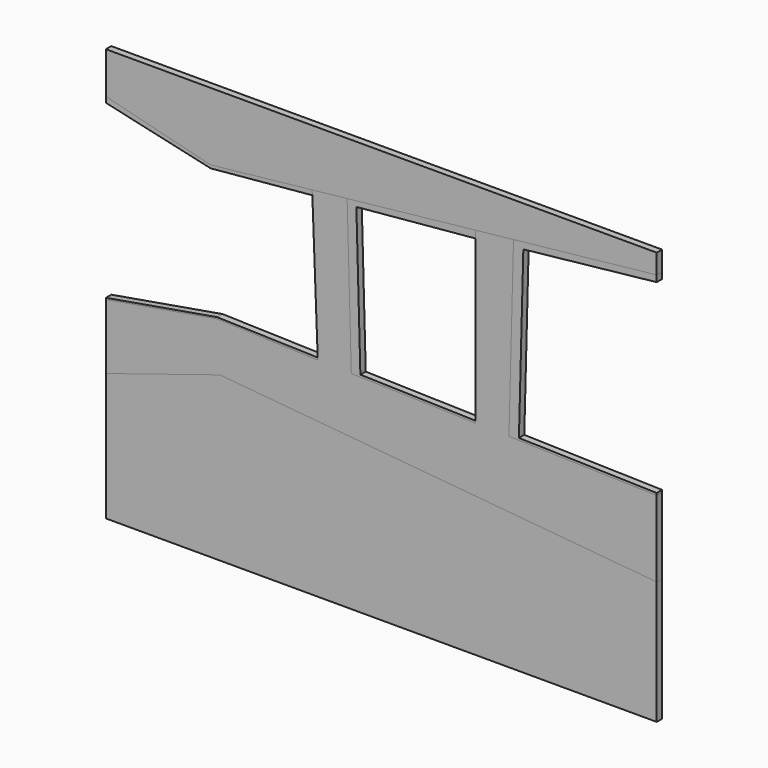
from build123d import *

# Parameters (mm, degrees)
F2_DEPTH = 2.54
F3_DEPTH = 2.54
F4_DEPTH = 2.54
F5_DEPTH = 2.54


with BuildPart() as f2:
    # F1 (on Front) → F2 (new body)
    with BuildSketch(Plane.XZ):
        Polygon((-60.72167, -17.372691), (-103.898698, -30.960672), (-103.898698, -79.305868), (104.809191, -79.305868), (104.809191, -32.622498), align=None)
    extrude(amount=F2_DEPTH)


with BuildPart() as f3:
    # F1 (on Front) → F3 (new body)
    with BuildSketch(Plane.XZ):
        Polygon((-61.673749, 0.958866), (-103.898698, -6.29724), (-103.898698, -30.960672), (-60.72167, -17.372691), align=None)
        Polygon((48.810381, -2.284143), (50.551797, 63.942278), (36.207689, 62.39319), (36.207689, 59.63257), (36.207689, -1.148774), (36.207689, -1.952756), (-10.918569, -0.713576), (-12.50122, 57.132883), (-25.744948, 55.70263), (-25.677872, 53.930861), (-23.653735, 0.464625), (-23.621777, -0.379547), (-61.673749, 0.958866), (-60.72167, -17.372691), (104.809191, -32.622498), (104.809191, -3.756626), align=None)
    extrude(amount=F3_DEPTH)


with BuildPart() as f4:
    # F1 (on Front) → F4 (new body)
    with BuildSketch(Plane.XZ):
        Polygon((104.809191, 67.367421), (104.809191, 69.801793), (50.551797, 63.942278), (54.265019, 61.908916), align=None)
        Polygon((54.265019, 61.908916), (50.551797, 63.942278), (48.810381, -2.284143), (52.596175, -1.557528), align=None)
        Polygon((104.809191, -3.756626), (104.809191, -2.930464), (52.596175, -1.557528), (48.810381, -2.284143), align=None)
        Polygon((-7.480396, 0), (-10.918569, -0.713576), (36.207689, -1.952756), (36.207689, -1.148774), align=None)
        Polygon((-8.997964, 55.467632), (-12.50122, 57.132883), (-10.918569, -0.713576), (-7.480396, 0), align=None)
        Polygon((36.207689, 59.63257), (36.207689, 62.39319), (-12.50122, 57.132883), (-8.997964, 55.467632), align=None)
        Polygon((-25.744948, 55.70263), (-64.240411, 51.545322), (-64.240411, 50.377974), (-25.677872, 53.930861), align=None)
        Polygon((-64.240411, 51.545322), (-103.898698, 61.438106), (-103.898698, 59.327256), (-64.240411, 50.377974), align=None)
        Polygon((-61.704853, 1.557751), (-103.898698, -5.69301), (-103.898698, -6.29724), (-61.673749, 0.958866), align=None)
        Polygon((-23.653735, 0.464625), (-61.704853, 1.557751), (-61.673749, 0.958866), (-23.621777, -0.379547), align=None)
    extrude(amount=F4_DEPTH)


with BuildPart() as f5:
    # F1 (on Front) → F5 (new body)
    with BuildSketch(Plane.XZ):
        Polygon((104.809191, 77.225049), (-103.898698, 77.225049), (-103.898698, 61.438106), (-64.240411, 51.545322), (-25.744948, 55.70263), (-12.50122, 57.132883), (36.207689, 62.39319), (50.551797, 63.942278), (104.809191, 69.801793), align=None)
    extrude(amount=F5_DEPTH)


solid = Compound([f2.part, f3.part, f4.part, f5.part])
